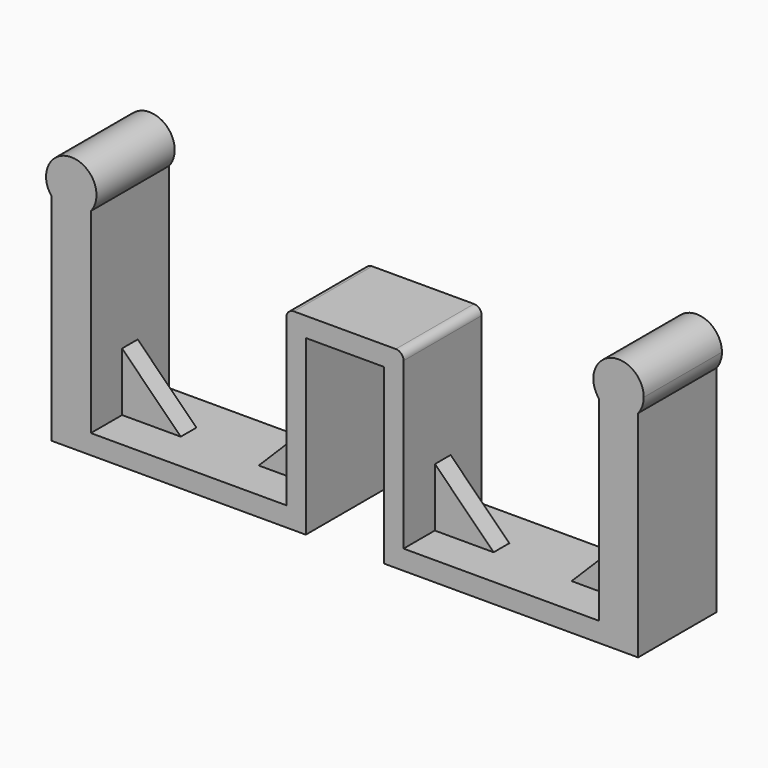
from build123d import *

# Parameters (mm, degrees)
F1_DEPTH = 12.5
F3_DEPTH = 2.5
F4_R     = 1.983726
F5_R     = 4.05
F6_DEPTH = 12.5


with BuildPart() as f1:
    # F0 (on Front) → F1 (new body, symmetric)
    with BuildSketch(Plane.XZ):
        with BuildLine():
            Line((65, 0), (15, 0))
            Line((15, 0), (15, 44.3))
            Line((15, 44.3), (0, 44.3))
            Line((0, 44.3), (0, 39.3))
            Line((0, 39.3), (10, 39.3))
            Line((10, 39.3), (10, -5))
            Line((10, -5), (75, -5))
            Line((75, -5), (75, 50))
            ThreePointArc((75, 50), (70, 47.623014), (65, 50))
            Line((65, 50), (65, 0))
        make_face()
        with BuildLine():
            Line((75, 50), (65, 50))
            ThreePointArc((65, 50), (70, 47.623014), (75, 50))
        make_face()
        with BuildLine():
            ThreePointArc((76.447254, 54.070268), (67.840045, 60.144943), (65, 50))
            Line((65, 50), (75, 50))
            ThreePointArc((75, 50), (76.074675, 51.910313), (76.447254, 54.070268))
        make_face()
    extrude(amount=F1_DEPTH, both=True)

    # F2 (on Front) → F3 (join, symmetric)
    with BuildSketch(Plane.XZ):
        Polygon((15.042217, 15), (15.042217, 0), (30.042217, 0), align=None)
        Polygon((50, 0), (65, 0), (65, 15), align=None)
    extrude(amount=F3_DEPTH, both=True)

    # F4
    f4_edges = [f1.edges().sort_by_distance(p)[0] for p in [
        (15, 0, 44.3),
    ]]
    fillet(f4_edges, radius=F4_R)

    # F5 (on Front) → F6 (cut, through all)
    with BuildSketch(Plane.XZ):
        with Locations((70, 54.070268)):
            Circle(F5_R)
    extrude(amount=-F6_DEPTH, mode=Mode.SUBTRACT)

    # F7: F1 across plane


with BuildPart() as f1_1:
    add(f1.part)
    add(f1.part.mirror(Plane.YZ))


solid = f1_1.part
